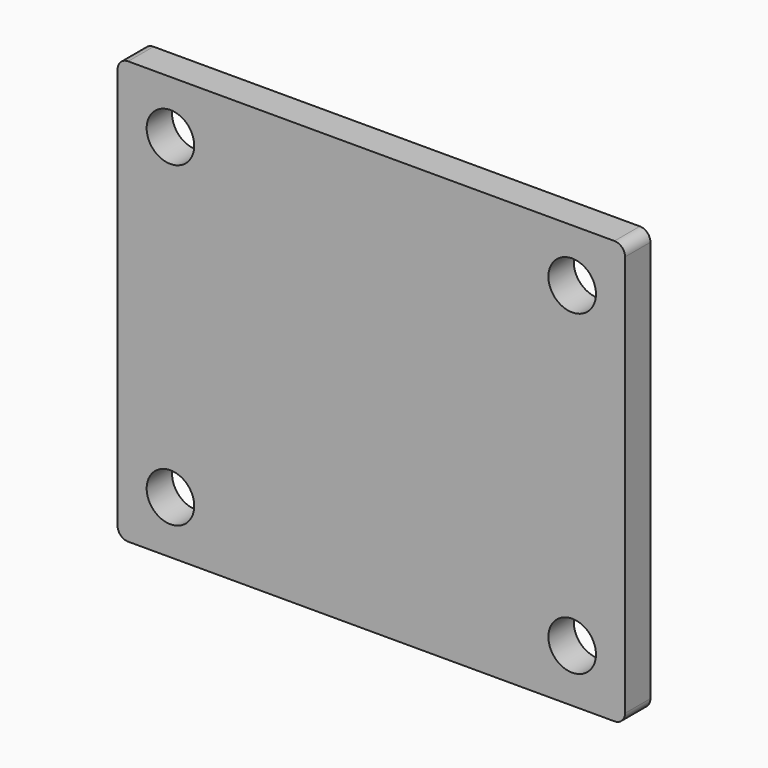
from build123d import *

# Parameters (mm, degrees)
F0_R     = 7.14375
F1_DEPTH = 4.7625


with BuildPart() as f1:
    # F0 (on Front) → F1 (new body, symmetric)
    with BuildSketch(Plane.XZ):
        with BuildLine():
            Line((-73.025, -63.5), (73.025, -63.5))
            ThreePointArc((73.025, -63.5), (75.270064, -62.570064), (76.2, -60.325))
            Line((76.2, -60.325), (76.2, 60.325))
            ThreePointArc((76.2, 60.325), (75.270064, 62.570064), (73.025, 63.5))
            Line((73.025, 63.5), (-73.025, 63.5))
            ThreePointArc((-73.025, 63.5), (-75.270064, 62.570064), (-76.2, 60.325))
            Line((-76.2, 60.325), (-76.2, -60.325))
            ThreePointArc((-76.2, -60.325), (-75.270064, -62.570064), (-73.025, -63.5))
        make_face()
        with Locations((-60.325, -47.625)):
            Circle(F0_R, mode=Mode.SUBTRACT)
        with Locations((60.325, -47.625)):
            Circle(F0_R, mode=Mode.SUBTRACT)
        with Locations((-60.325, 47.625)):
            Circle(F0_R, mode=Mode.SUBTRACT)
        with Locations((60.325, 47.625)):
            Circle(F0_R, mode=Mode.SUBTRACT)
    extrude(amount=F1_DEPTH, both=True)


solid = f1.part
